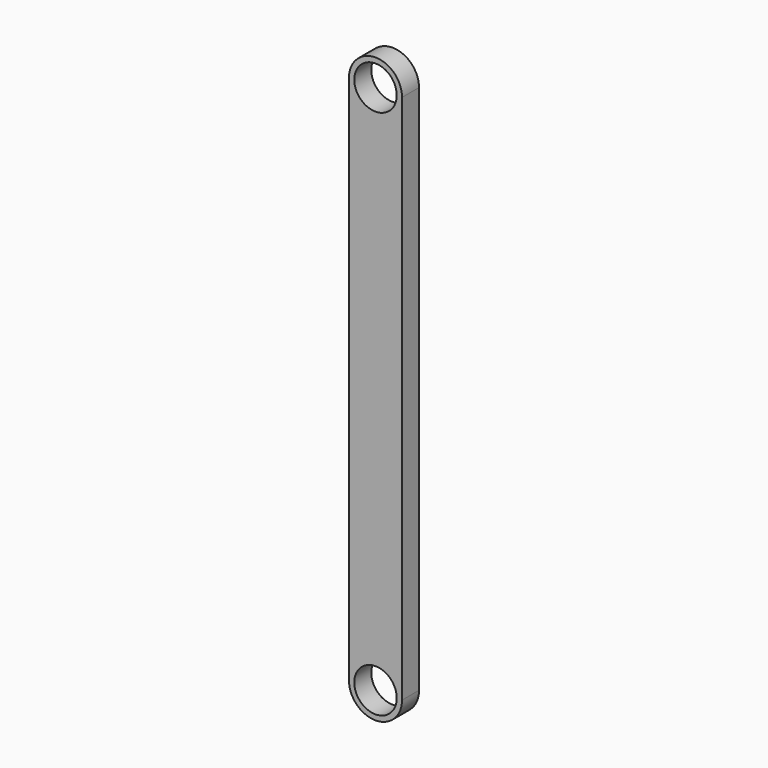
from build123d import *

# Parameters (mm, degrees)
F0_R     = 5.08
F1_DEPTH = 5.08


with BuildPart() as f1:
    # F0 (on Front) → F1 (new body)
    with BuildSketch(Plane.XZ):
        with BuildLine():
            Line((6.35, -46.644763), (6.35, 80.355237))
            ThreePointArc((6.35, 80.355237), (0, 74.005237), (-6.35, 80.355237))
            Line((-6.35, 80.355237), (-6.35, -46.644763))
            ThreePointArc((-6.35, -46.644763), (0, -40.294763), (6.35, -46.644763))
        make_face()
        with BuildLine():
            ThreePointArc((-6.35, 80.355237), (0, 74.005237), (6.35, 80.355237))
            ThreePointArc((6.35, 80.355237), (0, 86.705237), (-6.35, 80.355237))
        make_face()
        with Locations((0, 80.355237)):
            Circle(F0_R, mode=Mode.SUBTRACT)
        with BuildLine():
            ThreePointArc((-6.35, -46.644763), (0, -52.994763), (6.35, -46.644763))
            ThreePointArc((6.35, -46.644763), (0, -40.294763), (-6.35, -46.644763))
        make_face()
        with Locations((0, -46.644763)):
            Circle(F0_R, mode=Mode.SUBTRACT)
    extrude(amount=F1_DEPTH)


solid = f1.part
